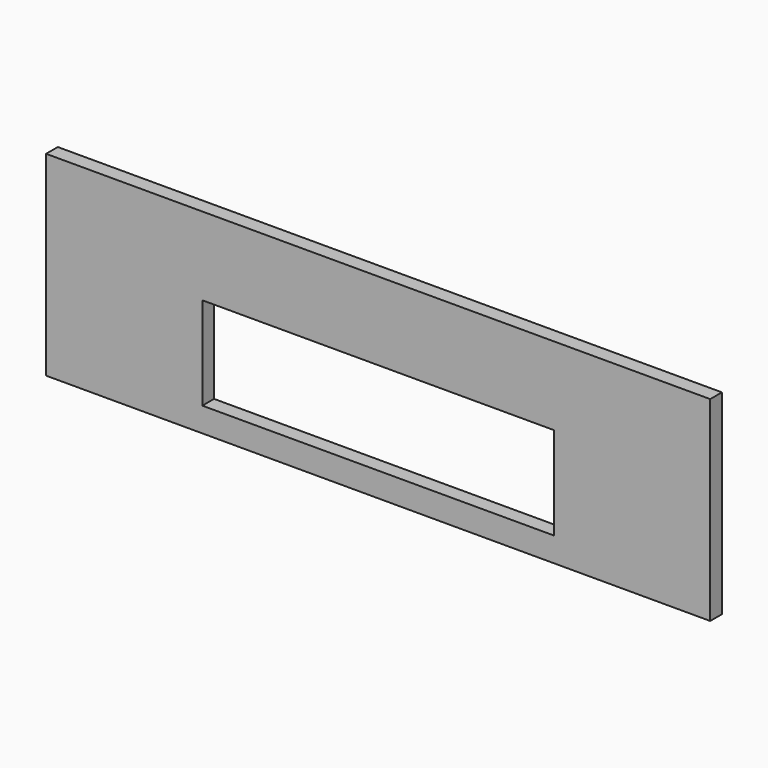
from build123d import *

# Parameters (mm, degrees)
F0_W     = 19.05
F0_H     = 254
F1_DEPTH = 863.6
F2_W     = 457.2
F2_H     = 120.65
F3_DEPTH = 19.051


with BuildPart() as f1:
    # F0 (on Right) → F1 (new body)
    with BuildSketch(Plane.YZ):
        Rectangle(F0_W, F0_H)
    extrude(amount=-F1_DEPTH)

    # F2 (on face) → F3 (cut, through all)
    with BuildSketch(Plane.XZ.offset(9.525)):
        with Locations((-431.8, -34.925)):
            Rectangle(F2_W, F2_H)
    extrude(amount=-F3_DEPTH, mode=Mode.SUBTRACT)


solid = f1.part
